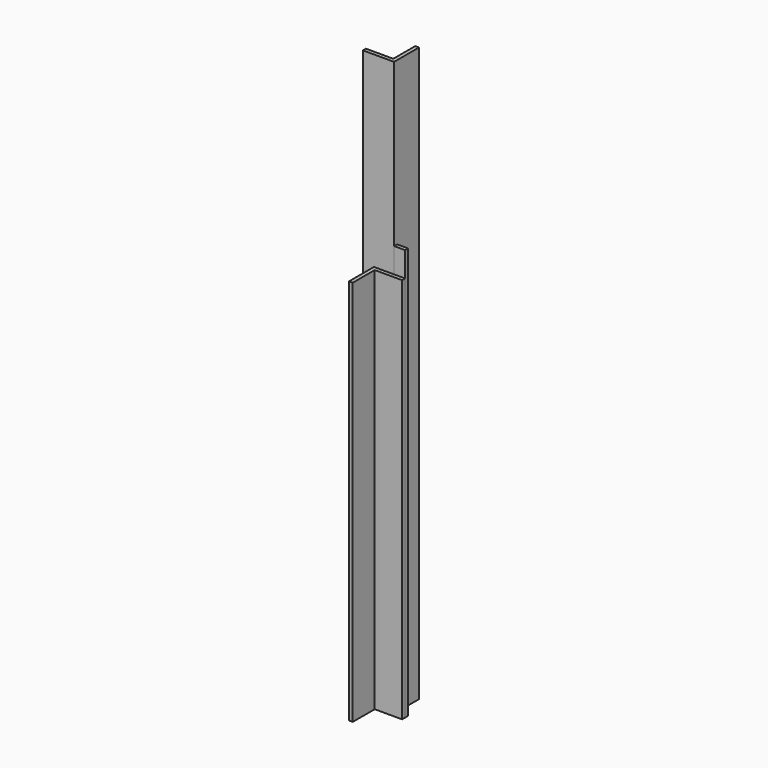
from build123d import *

# Parameters (mm, degrees)
F3_DEPTH = 310
F4_DEPTH = 330
F5_ANGLE = -90
F6_ANGLE = 180
F7_DEPTH = 460


with BuildPart() as f3:
    # F0 (on Front) → F3 (new body)
    with BuildSketch(Plane.XZ):
        Polygon((-25, 0), (0, 0), (0, 25), (-3, 25), (-3, 3), (-25, 3), align=None)
    extrude(amount=F3_DEPTH)


with BuildPart() as f4:
    # F1 (on Top) → F4 (new body)
    with BuildSketch(Plane.XY):
        Polygon((0, 25), (0, 0), (25, 0), (25, 3), (3, 3), (3, 25), align=None)
    extrude(amount=F4_DEPTH)


with BuildPart() as f3_1:
    # F5: moved
    add(f3.part.rotate(Axis((-12.5, 0, 0), (-1, 0, 0)), F5_ANGLE))


with BuildPart() as f3_2:
    # F6: moved
    add(f3_1.part.rotate(Axis((0, -155, 0), (0, -1, 0)), F6_ANGLE))


with BuildPart() as f7:
    # F2 (on Top) → F7 (new body)
    with BuildSketch(Plane.XY):
        Polygon((-8.877775, 0), (16.122225, 0), (16.122225, 25), (13.122225, 25), (13.122225, 3), (-8.877775, 3), align=None)
    extrude(amount=F7_DEPTH)


solid = Compound([f4.part, f3_2.part, f7.part])
